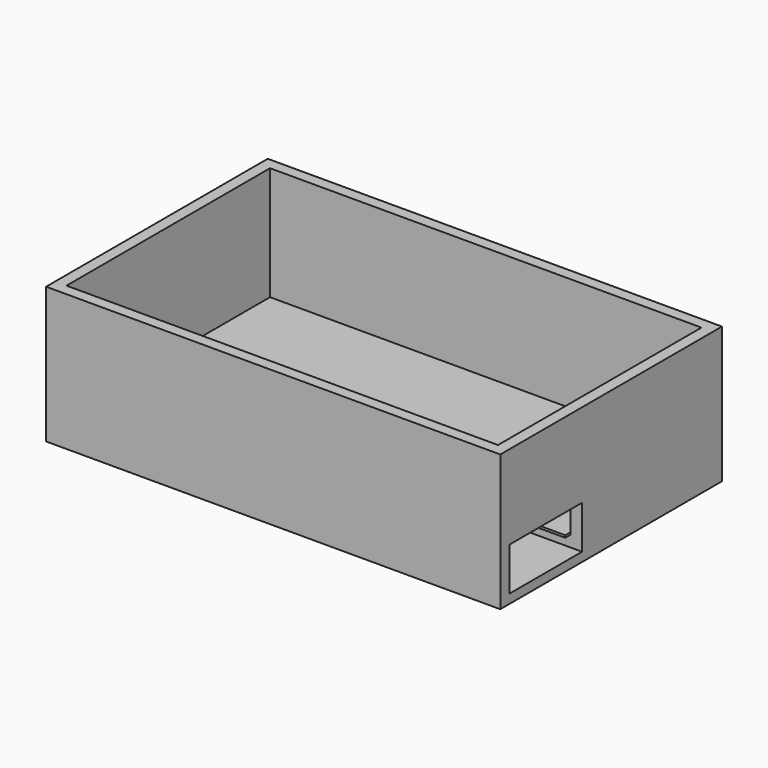
from build123d import *

# Parameters (mm, degrees)
SKETCH022_W     = 100
SKETCH022_H     = 61
PAD013_DEPTH    = 30
SKETCH023_W     = 95
SKETCH023_H     = 56
POCKET004_DEPTH = 25
SKETCH024_W     = 20
SKETCH024_H     = 9.5
POCKET005_DEPTH = 2.5
SKETCH025_W     = 20
SKETCH025_H     = 2.5
POCKET006_DEPTH = 50
SKETCH026_W     = 17
SKETCH026_H     = 0.5
POCKET007_DEPTH = 50


with BuildPart() as part:
    # Sketch022 → Pad013 (new body)
    with BuildSketch(Plane.XY):
        Rectangle(SKETCH022_W, SKETCH022_H)
    extrude(amount=PAD013_DEPTH)

    # Sketch023 (on Face6 of Pad013) → Pocket004 (cut)
    with BuildSketch(Plane.XY.offset(30)):
        Rectangle(SKETCH023_W, SKETCH023_H)
    extrude(amount=-POCKET004_DEPTH, mode=Mode.SUBTRACT)

    # Sketch024 (on Face3 of Pocket004) → Pocket005 (cut)
    with BuildSketch(Plane.YZ.offset(50)):
        with Locations((-18, 6.75)):
            Rectangle(SKETCH024_W, SKETCH024_H)
    extrude(amount=-POCKET005_DEPTH, mode=Mode.SUBTRACT)

    # Sketch025 (on Face13 of Pocket005) → Pocket006 (cut)
    with BuildSketch(Plane.YZ.offset(47.5)):
        with Locations((-18, 3.25)):
            Rectangle(SKETCH025_W, SKETCH025_H)
    extrude(amount=-POCKET006_DEPTH, mode=Mode.SUBTRACT)

    # Sketch026 (on Face1 of Pocket006) → Pocket007 (cut)
    with BuildSketch(Plane.YZ.offset(47.5)):
        with Locations((-18, 4.75)):
            Rectangle(SKETCH026_W, SKETCH026_H)
    extrude(amount=-POCKET007_DEPTH, mode=Mode.SUBTRACT)


solid = part.part
